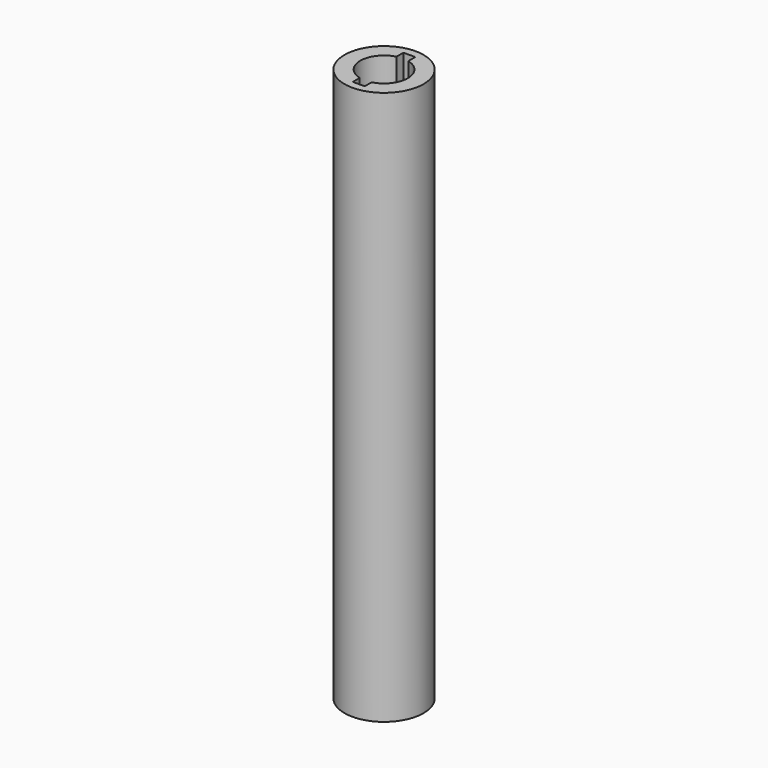
from build123d import *

# Parameters (mm, degrees)
F0_R     = 12.7
F1_DEPTH = 177.8
F3_DEPTH = 152.4


with BuildPart() as f1:
    # F0 (on Top) → F1 (new body)
    with BuildSketch(Plane.XY):
        Circle(F0_R)
    extrude(amount=F1_DEPTH)

    # F2 (on face) → F3 (cut)
    with BuildSketch(Plane.XY.offset(177.8)):
        with BuildLine():
            Line((-1.905, -7.3780332745), (-1.905, 7.3780332745))
            ThreePointArc((-1.905, 7.3780332745), (-7.62, 0), (-1.905, -7.3780332745))
        make_face()
        with BuildLine():
            ThreePointArc((-1.905, 7.3780332745), (0, 7.62), (1.905, 7.3780332745))
            Line((1.905, 7.3780332745), (1.905, 10.16))
            Line((1.905, 10.16), (-1.905, 10.16))
            Line((-1.905, 10.16), (-1.905, 7.3780332745))
        make_face()
        with BuildLine():
            Line((1.905, -7.3780332745), (1.905, 7.3780332745))
            ThreePointArc((1.905, 7.3780332745), (0, 7.62), (-1.905, 7.3780332745))
            Line((-1.905, 7.3780332745), (-1.905, -7.3780332745))
            ThreePointArc((-1.905, -7.3780332745), (0, -7.62), (1.905, -7.3780332745))
        make_face()
        with BuildLine():
            ThreePointArc((1.905, -7.3780332745), (6.0241389426, -4.66627796), (7.62, 0))
            ThreePointArc((7.62, 0), (6.0241389426, 4.66627796), (1.905, 7.3780332745))
            Line((1.905, 7.3780332745), (1.905, -7.3780332745))
        make_face()
        with BuildLine():
            Line((1.905, -10.16), (1.905, -7.3780332745))
            ThreePointArc((1.905, -7.3780332745), (0, -7.62), (-1.905, -7.3780332745))
            Line((-1.905, -7.3780332745), (-1.905, -10.16))
            Line((-1.905, -10.16), (1.905, -10.16))
        make_face()
    extrude(amount=-F3_DEPTH, mode=Mode.SUBTRACT)


solid = f1.part
